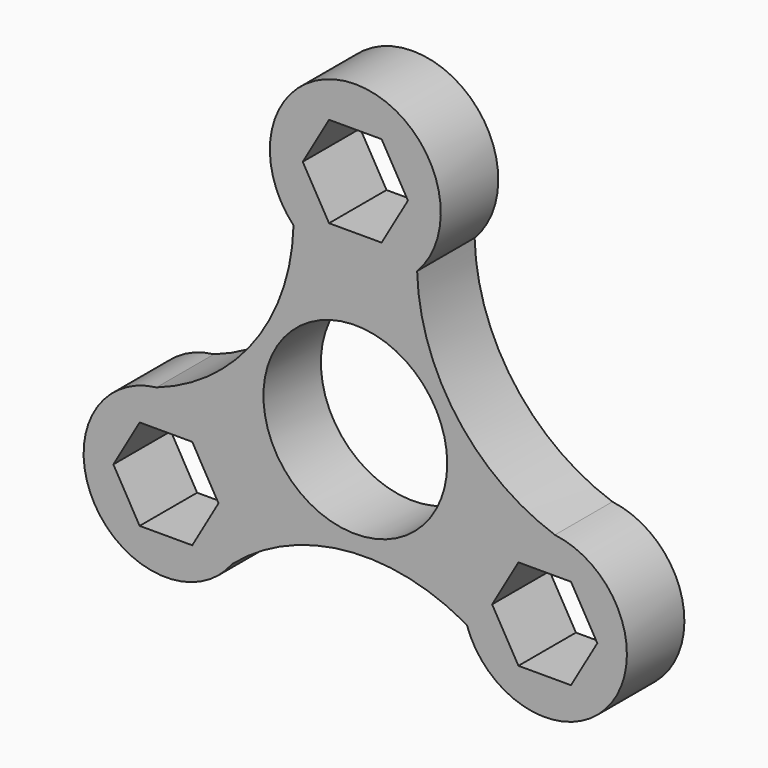
from build123d import *

# Parameters (mm, degrees)
F0_R     = 11
F1_DEPTH = 4.3


with BuildPart() as f1:
    # F0 (on Front) → F1 (new body, symmetric)
    with BuildSketch(Plane.XZ):
        with BuildLine():
            ThreePointArc((-7.397952, 19.11019), (-12.098192, 5.340971), (-23.805685, -3.297214))
            ThreePointArc((-23.805685, -3.297214), (-31.201263, -18.014058), (-14.758313, -18.967721))
            ThreePointArc((-14.758313, -18.967721), (-1.423679, -13.147827), (12.850934, -15.961909))
            Line((12.850934, -15.961909), (13.346132, -16.230978))
            ThreePointArc((13.346132, -16.230978), (30.283039, -19.310594), (23.891269, -3.326598))
            ThreePointArc((23.891269, -3.326598), (12.124955, 5.304492), (7.397952, 19.11019))
            ThreePointArc((7.397952, 19.11019), (0, 36.400765), (-7.397952, 19.11019))
        make_face()
        Polygon((-19.519779, -18.536416), (-25.812897, -18.536416), (-28.959456, -13.086416), (-25.812897, -7.636416), (-19.519779, -7.636416), (-16.37322, -13.086416), align=None, mode=Mode.SUBTRACT)
        Polygon((25.812897, -18.536416), (19.519779, -18.536416), (16.37322, -13.086416), (19.519779, -7.636416), (25.812897, -7.636416), (28.959456, -13.086416), align=None, mode=Mode.SUBTRACT)
        Circle(F0_R, mode=Mode.SUBTRACT)
        Polygon((6.293118, 26.172833), (3.146559, 20.722833), (-3.146559, 20.722833), (-6.293118, 26.172833), (-3.146559, 31.622833), (3.146559, 31.622833), align=None, mode=Mode.SUBTRACT)
    extrude(amount=F1_DEPTH, both=True)


solid = f1.part
